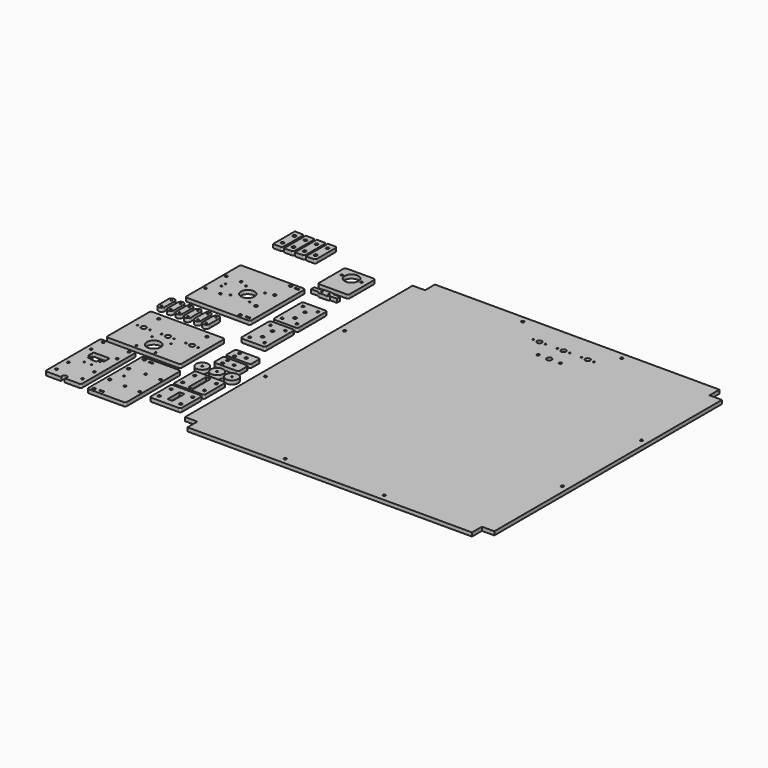
from build123d import *

# Parameters (mm, degrees)
F0_R      = 2
F0_R_2    = 1.3
F0_R_3    = 1.4
F0_R_4    = 2.5
F0_W      = 7
F0_H      = 2.5
F0_R_5    = 11.1
F1_DEPTH  = 6
F2_R      = 2.5
F2_W      = 7
F2_H      = 2.5
F2_R_2    = 1.5
F2_R_3    = 2
F3_DEPTH  = 6
F4_R      = 2
F4_R_2    = 1.3
F4_R_3    = 1.5
F5_DEPTH  = 6
F6_R      = 2
F6_R_2    = 2.5
F7_DEPTH  = 6
F8_R      = 2
F8_R_2    = 2.5
F9_DEPTH  = 6
F11_DEPTH = 6
F12_D     = 4.4
F14_DEPTH = 6
F15_D     = 4.4
F16_R     = 10
F17_DEPTH = 6
F18_D     = 3
F19_R     = 10
F20_DEPTH = 6
F21_D     = 3
F22_R     = 10
F23_DEPTH = 6
F24_D     = 3
F25_W     = 8
F25_H     = 35.2
F26_DEPTH = 6
F27_D     = 4.4
F28_W     = 8
F28_H     = 24.2
F29_DEPTH = 6
F30_D     = 4.4
F32_DEPTH = 6
F33_D     = 2.6
F34_D     = 4.4
F35_D     = 8.1
F36_D     = 22.5
F38_DEPTH = 6
F39_D     = 2.6
F41_DEPTH = 6
F42_D     = 2.6
F44_DEPTH = 6
F45_D     = 2.6
F47_DEPTH = 6
F48_D     = 2.6
F50_DEPTH = 6
F51_D     = 2.6
F53_DEPTH = 6
F54_D     = 2.6
F56_DEPTH = 6
F57_D     = 4.4
F58_D     = 2.6
F59_D     = 8.1
F60_D     = 8.4
F67_W     = 16
F67_H     = 12
F68_DEPTH = 6
F69_D     = 2.6
F71_DEPTH = 6
F72_D     = 3.5
F73_D     = 22.5
F75_DEPTH = 6
F76_D     = 2.6
F77_R     = 2.5
F78_DEPTH = 6
F79_R     = 2.5
F80_DEPTH = 6
F81_R     = 2.5
F82_DEPTH = 6
F83_R     = 2.5
F84_DEPTH = 6


with BuildPart() as f1:
    # F0 (on Top) → F1 (new body)
    with BuildSketch(Plane.XY):
        with BuildLine():
            Line((-121.4726894895, 123.7088296951), (-220.4726894895, 123.7088296951))
            ThreePointArc((-220.4726894895, 123.7088296951), (-222.5940098331, 122.8301500386), (-223.4726894895, 120.7088296951))
            Line((-223.4726894895, 120.7088296951), (-223.4726894895, 14.7088296951))
            ThreePointArc((-223.4726894895, 14.7088296951), (-222.5940098331, 12.5875093515), (-220.4726894895, 11.7088296951))
            Line((-220.4726894895, 11.7088296951), (-121.4726894895, 11.7088296951))
            ThreePointArc((-121.4726894895, 11.7088296951), (-119.351369146, 12.5875093515), (-118.4726894895, 14.7088296951))
            Line((-118.4726894895, 14.7088296951), (-118.4726894895, 120.7088296951))
            ThreePointArc((-118.4726894895, 120.7088296951), (-119.351369146, 122.8301500386), (-121.4726894895, 123.7088296951))
        make_face()
        with Locations((-218.4726894895, 46.7088296951)):
            Circle(F0_R, mode=Mode.SUBTRACT)
        with Locations((-206.4726894895, 63.7088296951)):
            Circle(F0_R_2, mode=Mode.SUBTRACT)
        with Locations((-194.4726894895, 46.7088296951)):
            Circle(F0_R, mode=Mode.SUBTRACT)
        with Locations((-182.4726894895, 52.2088296951)):
            Circle(F0_R_3, mode=Mode.SUBTRACT)
        with Locations((-138.4726894895, 16.7088296951)):
            Circle(F0_R_4, mode=Mode.SUBTRACT)
        with Locations((-126.9726894895, 17.9588296951)):
            Rectangle(F0_W, F0_H, mode=Mode.SUBTRACT)
        with Locations((-151.4726894895, 52.2088296951)):
            Circle(F0_R_3, mode=Mode.SUBTRACT)
        with Locations((-166.9726894895, 67.7088296951)):
            Circle(F0_R_5, mode=Mode.SUBTRACT)
        with Locations((-138.4726894895, 48.7088296951)):
            Circle(F0_R_4, mode=Mode.SUBTRACT)
        with Locations((-206.4726894895, 71.7088296951)):
            Circle(F0_R_2, mode=Mode.SUBTRACT)
        with Locations((-218.4726894895, 88.7088296951)):
            Circle(F0_R, mode=Mode.SUBTRACT)
        with Locations((-194.4726894895, 88.7088296951)):
            Circle(F0_R, mode=Mode.SUBTRACT)
        with Locations((-182.4726894895, 83.2088296951)):
            Circle(F0_R_3, mode=Mode.SUBTRACT)
        with Locations((-151.4726894895, 83.2088296951)):
            Circle(F0_R_3, mode=Mode.SUBTRACT)
        with Locations((-138.4726894895, 86.7088296951)):
            Circle(F0_R_4, mode=Mode.SUBTRACT)
        with Locations((-138.4726894895, 118.7088296951)):
            Circle(F0_R_4, mode=Mode.SUBTRACT)
        with Locations((-126.9726894895, 117.4588296951)):
            Rectangle(F0_W, F0_H, mode=Mode.SUBTRACT)
    extrude(amount=F1_DEPTH)


with BuildPart() as f3:
    # F2 (on Top) → F3 (new body)
    with BuildSketch(Plane.XY):
        with BuildLine():
            Line((183.2012386918, 102.1389492266), (127.2012386918, 102.1389492266))
            ThreePointArc((127.2012386918, 102.1389492266), (125.0799183482, 101.2602695701), (124.2012386918, 99.1389492266))
            Line((124.2012386918, 99.1389492266), (124.2012386918, -6.8610507734))
            ThreePointArc((124.2012386918, -6.8610507734), (125.0799183482, -8.982371117), (127.2012386918, -9.8610507734))
            Line((127.2012386918, -9.8610507734), (183.2012386918, -9.8610507734))
            ThreePointArc((183.2012386918, -9.8610507734), (185.3225590354, -8.982371117), (186.2012386918, -6.8610507734))
            Line((186.2012386918, -6.8610507734), (186.2012386918, 99.1389492266))
            ThreePointArc((186.2012386918, 99.1389492266), (185.3225590354, 101.2602695701), (183.2012386918, 102.1389492266))
        make_face()
        with Locations((131.2012386918, -4.8610507734)):
            Circle(F2_R, mode=Mode.SUBTRACT)
        with Locations((142.7012386918, -3.6110507734)):
            Rectangle(F2_W, F2_H, mode=Mode.SUBTRACT)
        with Locations((131.2012386918, 27.1389492266)):
            Circle(F2_R, mode=Mode.SUBTRACT)
        with Locations((139.2012386918, 46.1389492266)):
            Circle(F2_R_2, mode=Mode.SUBTRACT)
        with Locations((157.2012386918, 25.1389492266)):
            Circle(F2_R_3, mode=Mode.SUBTRACT)
        with Locations((181.2012386918, 25.1389492266)):
            Circle(F2_R_3, mode=Mode.SUBTRACT)
        with Locations((131.2012386918, 65.1389492266)):
            Circle(F2_R, mode=Mode.SUBTRACT)
        with Locations((131.2012386918, 97.1389492266)):
            Circle(F2_R, mode=Mode.SUBTRACT)
        with Locations((142.7012386918, 95.8889492266)):
            Rectangle(F2_W, F2_H, mode=Mode.SUBTRACT)
        with Locations((157.2012386918, 67.1389492266)):
            Circle(F2_R_3, mode=Mode.SUBTRACT)
        with Locations((181.2012386918, 67.1389492266)):
            Circle(F2_R_3, mode=Mode.SUBTRACT)
    extrude(amount=F3_DEPTH)


with BuildPart() as f5:
    # F4 (on Top) → F5 (new body)
    with BuildSketch(Plane.XY):
        with BuildLine():
            Line((17.8303923532, 117.4212751091), (-34.1696076468, 117.4212751091))
            ThreePointArc((-34.1696076468, 117.4212751091), (-36.2909279903, 116.5425954526), (-37.1696076468, 114.4212751091))
            Line((-37.1696076468, 114.4212751091), (-37.1696076468, 8.4212751091))
            ThreePointArc((-37.1696076468, 8.4212751091), (-36.2909279903, 6.2999547655), (-34.1696076468, 5.4212751091))
            Line((-34.1696076468, 5.4212751091), (-10.8153589578, 5.4212751091))
            ThreePointArc((-10.8153589578, 5.4212751091), (-8.1696076468, 12.4212751091), (-5.5238563357, 5.4212751091))
            Line((-5.5238563357, 5.4212751091), (17.8303923532, 5.4212751091))
            ThreePointArc((17.8303923532, 5.4212751091), (19.9517126968, 6.2999547655), (20.8303923532, 8.4212751091))
            Line((20.8303923532, 8.4212751091), (20.8303923532, 59.0844553919))
            Line((20.8303923532, 59.0844553919), (20.8303923532, 67.9327879548))
            Line((20.8303923532, 67.9327879548), (20.8303923532, 114.4212751091))
            ThreePointArc((20.8303923532, 114.4212751091), (19.9517126968, 116.5425954526), (17.8303923532, 117.4212751091))
        make_face()
        with Locations((-29.1696076468, 18.4212751091)):
            Circle(F4_R, mode=Mode.SUBTRACT)
        with Locations((-29.1696076468, 42.4212751091)):
            Circle(F4_R, mode=Mode.SUBTRACT)
        with Locations((-13.9696076468, 55.4212751091)):
            Circle(F4_R_2, mode=Mode.SUBTRACT)
        with Locations((12.8303923532, 18.4212751091)):
            Circle(F4_R, mode=Mode.SUBTRACT)
        with Locations((-2.3696076468, 55.4212751091)):
            Circle(F4_R_2, mode=Mode.SUBTRACT)
        with Locations((12.8303923532, 42.4212751091)):
            Circle(F4_R, mode=Mode.SUBTRACT)
        with Locations((-29.1696076468, 88.4212751091)):
            Circle(F4_R, mode=Mode.SUBTRACT)
        with Locations((-16.9696076468, 68.9212751091)):
            Circle(F4_R_3, mode=Mode.SUBTRACT)
        with BuildLine():
            ThreePointArc((-21.1696076468, 81.4212751091), (-20.5838212092, 82.8354886714), (-19.1696076468, 83.4212751091))
            Line((-19.1696076468, 83.4212751091), (2.8303923532, 83.4212751091))
            ThreePointArc((2.8303923532, 83.4212751091), (4.2446059156, 82.8354886714), (4.8303923532, 81.4212751091))
            Line((4.8303923532, 81.4212751091), (4.8303923532, 73.9212751091))
            ThreePointArc((4.8303923532, 73.9212751091), (4.2446059156, 72.5070615467), (2.8303923532, 71.9212751091))
            Line((2.8303923532, 71.9212751091), (-1.9696076468, 71.9212751091))
            ThreePointArc((-1.9696076468, 71.9212751091), (-2.676714428, 71.6283818902), (-2.9696076468, 70.9212751091))
            Line((-2.9696076468, 70.9212751091), (-2.9696076468, 66.9212751091))
            ThreePointArc((-2.9696076468, 66.9212751091), (-3.2625008656, 66.2141683279), (-3.9696076468, 65.9212751091))
            Line((-3.9696076468, 65.9212751091), (-11.9696076468, 65.9212751091))
            ThreePointArc((-11.9696076468, 65.9212751091), (-12.676714428, 66.2141683279), (-12.9696076468, 66.9212751091))
            Line((-12.9696076468, 66.9212751091), (-12.9696076468, 70.9212751091))
            ThreePointArc((-12.9696076468, 70.9212751091), (-13.2625008656, 71.6283818902), (-13.9696076468, 71.9212751091))
            Line((-13.9696076468, 71.9212751091), (-19.1696076468, 71.9212751091))
            ThreePointArc((-19.1696076468, 71.9212751091), (-20.5838212092, 72.5070615467), (-21.1696076468, 73.9212751091))
            Line((-21.1696076468, 73.9212751091), (-21.1696076468, 81.4212751091))
        make_face(mode=Mode.SUBTRACT)
        with Locations((-29.1696076468, 112.4212751091)):
            Circle(F4_R, mode=Mode.SUBTRACT)
        with Locations((0.6303923532, 68.9212751091)):
            Circle(F4_R_3, mode=Mode.SUBTRACT)
        with Locations((12.8303923532, 88.4212751091)):
            Circle(F4_R, mode=Mode.SUBTRACT)
        with Locations((12.8303923532, 112.4212751091)):
            Circle(F4_R, mode=Mode.SUBTRACT)
    extrude(amount=F5_DEPTH)


with BuildPart() as f7:
    # F6 (on Top) → F7 (new body)
    with BuildSketch(Plane.XY):
        with BuildLine():
            Line((-62.3658283694, 93.7757576555), (-96.3658283694, 93.7757576555))
            ThreePointArc((-96.3658283694, 93.7757576555), (-98.487148713, 92.8970779991), (-99.3658283694, 90.7757576555))
            Line((-99.3658283694, 90.7757576555), (-99.3658283694, 36.7757576555))
            ThreePointArc((-99.3658283694, 36.7757576555), (-98.487148713, 34.6544373119), (-96.3658283694, 33.7757576555))
            Line((-96.3658283694, 33.7757576555), (-62.3658283694, 33.7757576555))
            ThreePointArc((-62.3658283694, 33.7757576555), (-60.2445080259, 34.6544373119), (-59.3658283694, 36.7757576555))
            Line((-59.3658283694, 36.7757576555), (-59.3658283694, 90.7757576555))
            ThreePointArc((-59.3658283694, 90.7757576555), (-60.2445080259, 92.8970779991), (-62.3658283694, 93.7757576555))
        make_face()
        with Locations((-91.3658283694, 42.7757576555)):
            Circle(F6_R, mode=Mode.SUBTRACT)
        with Locations((-79.3658283694, 53.7757576555)):
            Circle(F6_R_2, mode=Mode.SUBTRACT)
        with Locations((-67.3658283694, 42.7757576555)):
            Circle(F6_R, mode=Mode.SUBTRACT)
        with Locations((-79.3658283694, 73.7757576555)):
            Circle(F6_R_2, mode=Mode.SUBTRACT)
        with Locations((-91.3658283694, 84.7757576555)):
            Circle(F6_R, mode=Mode.SUBTRACT)
        with Locations((-67.3658283694, 84.7757576555)):
            Circle(F6_R, mode=Mode.SUBTRACT)
    extrude(amount=F7_DEPTH)


with BuildPart() as f9:
    # F8 (on Top) → F9 (new body)
    with BuildSketch(Plane.XY):
        with BuildLine():
            Line((-62.1878812015, 27.9358605924), (-96.1878812015, 27.9358605924))
            ThreePointArc((-96.1878812015, 27.9358605924), (-98.3092015451, 27.057180936), (-99.1878812015, 24.9358605924))
            Line((-99.1878812015, 24.9358605924), (-99.1878812015, -29.0641394076))
            ThreePointArc((-99.1878812015, -29.0641394076), (-98.3092015451, -31.1854597512), (-96.1878812015, -32.0641394076))
            Line((-96.1878812015, -32.0641394076), (-62.1878812015, -32.0641394076))
            ThreePointArc((-62.1878812015, -32.0641394076), (-60.0665608579, -31.1854597512), (-59.1878812015, -29.0641394076))
            Line((-59.1878812015, -29.0641394076), (-59.1878812015, 24.9358605924))
            ThreePointArc((-59.1878812015, 24.9358605924), (-60.0665608579, 27.057180936), (-62.1878812015, 27.9358605924))
        make_face()
        with Locations((-91.1878812015, -23.0641394076)):
            Circle(F8_R, mode=Mode.SUBTRACT)
        with Locations((-79.1878812015, -12.0641394076)):
            Circle(F8_R_2, mode=Mode.SUBTRACT)
        with Locations((-67.1878812015, -23.0641394076)):
            Circle(F8_R, mode=Mode.SUBTRACT)
        with Locations((-79.1878812015, 7.9358605924)):
            Circle(F8_R_2, mode=Mode.SUBTRACT)
        with Locations((-91.1878812015, 18.9358605924)):
            Circle(F8_R, mode=Mode.SUBTRACT)
        with Locations((-67.1878812015, 18.9358605924)):
            Circle(F8_R, mode=Mode.SUBTRACT)
    extrude(amount=F9_DEPTH)


with BuildPart() as f11:
    # F10 (on Top) → F11 (new body)
    with BuildSketch(Plane.XY):
        with BuildLine():
            Line((82.8302996308, 100.5986004753), (48.8302996308, 100.5986004753))
            ThreePointArc((48.8302996308, 100.5986004753), (46.7089792872, 99.7199208189), (45.8302996308, 97.5986004753))
            Line((45.8302996308, 97.5986004753), (45.8302996308, 83.5986004753))
            ThreePointArc((45.8302996308, 83.5986004753), (46.7089792872, 81.4772801318), (48.8302996308, 80.5986004753))
            Line((48.8302996308, 80.5986004753), (82.8302996308, 80.5986004753))
            ThreePointArc((82.8302996308, 80.5986004753), (84.9516199743, 81.4772801318), (85.8302996308, 83.5986004753))
            Line((85.8302996308, 83.5986004753), (85.8302996308, 97.5986004753))
            ThreePointArc((85.8302996308, 97.5986004753), (84.9516199743, 99.7199208189), (82.8302996308, 100.5986004753))
        make_face()
    extrude(amount=F11_DEPTH)

    # F12 (through all)
    with Locations(Plane(origin=(0, 0, 0), x_dir=(1, 0, 0), z_dir=(0, 0, -1))):
        with Locations((70.8302996308, -90.8331647515), (56.2601983547, -95.5986004753), (56.2601983547, -85.5986004753)):
            Hole(F12_D / 2)


with BuildPart() as f14:
    # F13 (on Top) → F14 (new body)
    with BuildSketch(Plane.XY):
        with BuildLine():
            Line((83.043055733, 75.9324501036), (49.043055733, 75.9324501036))
            ThreePointArc((49.043055733, 75.9324501036), (46.9217353895, 75.0537704472), (46.043055733, 72.9324501036))
            Line((46.043055733, 72.9324501036), (46.043055733, 58.9324501036))
            ThreePointArc((46.043055733, 58.9324501036), (46.9217353895, 56.8111297601), (49.043055733, 55.9324501036))
            Line((49.043055733, 55.9324501036), (83.043055733, 55.9324501036))
            ThreePointArc((83.043055733, 55.9324501036), (85.1643760766, 56.8111297601), (86.043055733, 58.9324501036))
            Line((86.043055733, 58.9324501036), (86.043055733, 72.9324501036))
            ThreePointArc((86.043055733, 72.9324501036), (85.1643760766, 75.0537704472), (83.043055733, 75.9324501036))
        make_face()
    extrude(amount=F14_DEPTH)

    # F15 (through all)
    with Locations(Plane(origin=(0, 0, 0), x_dir=(1, 0, 0), z_dir=(0, 0, -1))):
        with Locations((56.472954457, -70.9324501036), (56.472954457, -60.9324501036), (71.043055733, -66.1670143799)):
            Hole(F15_D / 2)


with BuildPart() as f17:
    # F16 (on Top) → F17 (new body)
    with BuildSketch(Plane.XY):
        with Locations((41.353451604, 38.7378474598)):
            Circle(F16_R)
    extrude(amount=F17_DEPTH)

    # F18 (through all)
    with Locations(Plane(origin=(0, 0, 0), x_dir=(1, 0, 0), z_dir=(0, 0, -1))):
        with Locations((41.353451604, -38.7378474598)):
            Hole(F18_D / 2)


with BuildPart() as f20:
    # F19 (on Top) → F20 (new body)
    with BuildSketch(Plane.XY):
        with Locations((65.1841238141, 38.9179997146)):
            Circle(F19_R)
    extrude(amount=F20_DEPTH)

    # F21 (through all)
    with Locations(Plane(origin=(0, 0, 0), x_dir=(1, 0, 0), z_dir=(0, 0, -1))):
        with Locations((65.1841238141, -38.9179997146)):
            Hole(F21_D / 2)


with BuildPart() as f23:
    # F22 (on Top) → F23 (new body)
    with BuildSketch(Plane.XY):
        with Locations((88.78522715, 39.5500237191)):
            Circle(F22_R)
    extrude(amount=F23_DEPTH)

    # F24 (through all)
    with Locations(Plane(origin=(0, 0, 0), x_dir=(1, 0, 0), z_dir=(0, 0, -1))):
        with Locations((88.78522715, -39.5500237191)):
            Hole(F24_D / 2)


with BuildPart() as f26:
    # F25 (on Top) → F26 (new body)
    with BuildSketch(Plane.XY):
        with BuildLine():
            Line((89.607143566, 22.619068333), (45.607143566, 22.619068333))
            ThreePointArc((45.607143566, 22.619068333), (43.4858232225, 21.7403886766), (42.607143566, 19.619068333))
            Line((42.607143566, 19.619068333), (42.607143566, -18.380931667))
            ThreePointArc((42.607143566, -18.380931667), (43.4858232225, -20.5022520105), (45.607143566, -21.380931667))
            Line((45.607143566, -21.380931667), (89.607143566, -21.380931667))
            ThreePointArc((89.607143566, -21.380931667), (91.7284639096, -20.5022520105), (92.607143566, -18.380931667))
            Line((92.607143566, -18.380931667), (92.607143566, 19.619068333))
            ThreePointArc((92.607143566, 19.619068333), (91.7284639096, 21.7403886766), (89.607143566, 22.619068333))
        make_face()
        with Locations((67.607143566, 0.619068333)):
            Rectangle(F25_W, F25_H, mode=Mode.SUBTRACT)
    extrude(amount=F26_DEPTH)

    # F27 (through all)
    with Locations(Plane(origin=(0, 0, 0), x_dir=(1, 0, 0), z_dir=(0, 0, -1))):
        with Locations((50.107143566, -12.619068333), (50.107143566, 11.380931667), (85.107143566, -12.619068333), (85.107143566, 11.380931667)):
            Hole(F27_D / 2)


with BuildPart() as f29:
    # F28 (on Top) → F29 (new body)
    with BuildSketch(Plane.XY):
        with BuildLine():
            Line((89.4054548144, -24.8388311565), (45.4054548144, -24.8388311565))
            ThreePointArc((45.4054548144, -24.8388311565), (43.2841344709, -25.7175108129), (42.4054548144, -27.8388311565))
            Line((42.4054548144, -27.8388311565), (42.4054548144, -65.8388311565))
            ThreePointArc((42.4054548144, -65.8388311565), (43.2841344709, -67.9601515001), (45.4054548144, -68.8388311565))
            Line((45.4054548144, -68.8388311565), (89.4054548144, -68.8388311565))
            ThreePointArc((89.4054548144, -68.8388311565), (91.526775158, -67.9601515001), (92.4054548144, -65.8388311565))
            Line((92.4054548144, -65.8388311565), (92.4054548144, -27.8388311565))
            ThreePointArc((92.4054548144, -27.8388311565), (91.526775158, -25.7175108129), (89.4054548144, -24.8388311565))
        make_face()
        with Locations((67.4054548144, -46.8388311565)):
            Rectangle(F28_W, F28_H, mode=Mode.SUBTRACT)
    extrude(amount=F29_DEPTH)

    # F30 (through all)
    with Locations(Plane(origin=(0, 0, 0), x_dir=(1, 0, 0), z_dir=(0, 0, -1))):
        with Locations((49.9054548144, 34.8388311565), (49.9054548144, 58.8388311565), (84.9054548144, 58.8388311565), (84.9054548144, 34.8388311565)):
            Hole(F30_D / 2)


with BuildPart() as f32:
    # F31 (on Top) → F32 (new body)
    with BuildSketch(Plane.XY):
        with BuildLine():
            Line((-127.1964298487, -45.7102760133), (-241.1964298487, -45.7102760133))
            ThreePointArc((-241.1964298487, -45.7102760133), (-243.3177501922, -46.5889556697), (-244.1964298487, -48.7102760133))
            Line((-244.1964298487, -48.7102760133), (-244.1964298487, -132.7102760133))
            ThreePointArc((-244.1964298487, -132.7102760133), (-243.3177501922, -134.8315963568), (-241.1964298487, -135.7102760133))
            Line((-241.1964298487, -135.7102760133), (-127.1964298487, -135.7102760133))
            ThreePointArc((-127.1964298487, -135.7102760133), (-125.0751095051, -134.8315963568), (-124.1964298487, -132.7102760133))
            Line((-124.1964298487, -132.7102760133), (-124.1964298487, -48.7102760133))
            ThreePointArc((-124.1964298487, -48.7102760133), (-125.0751095051, -46.5889556697), (-127.1964298487, -45.7102760133))
        make_face()
    extrude(amount=F32_DEPTH)

    # F33 (through all)
    with Locations(Plane(origin=(0, 0, 0), x_dir=(1, 0, 0), z_dir=(0, 0, -1))):
        with Locations((-199.6964298487, 99.0102760133), (-199.6964298487, 130.0102760133), (-168.6964298487, 130.0102760133), (-168.6964298487, 99.0102760133), (-233.1964298487, 85.8718529344), (-213.1964298487, 85.8718529344), (-194.1964298487, 85.8718529344), (-174.1964298487, 85.8718529344), (-155.1964298487, 85.8718529344), (-135.1964298487, 85.8718529344)):
            Hole(F33_D / 2)

    # F34 (through all)
    with Locations(Plane(origin=(0, 0, 0), x_dir=(1, 0, 0), z_dir=(0, 0, -1))):
        with Locations((-223.1964298487, 55.7102760133), (-145.1964298487, 55.7102760133)):
            Hole(F34_D / 2)

    # F35 (through all)
    with Locations(Plane(origin=(0, 0, 0), x_dir=(1, 0, 0), z_dir=(0, 0, -1))):
        with Locations((-223.1964298487, 85.7102760133), (-184.1964298487, 85.7102760133), (-145.1964298487, 85.7102760133)):
            Hole(F35_D / 2)

    # F36 (through all)
    with Locations(Plane(origin=(0, 0, 0), x_dir=(1, 0, 0), z_dir=(0, 0, -1))):
        with Locations((-184.1964298487, 114.5102760133)):
            Hole(F36_D / 2)


with BuildPart() as f38:
    # F37 (on Top) → F38 (new body)
    with BuildSketch(Plane.XY):
        with BuildLine():
            Line((-226.533089431, -25.7523926041), (-226.533089431, -5.7523926041))
            ThreePointArc((-226.533089431, -5.7523926041), (-231.533089431, -0.7523926041), (-236.533089431, -5.7523926041))
            Line((-236.533089431, -5.7523926041), (-236.533089431, -25.7523926041))
            ThreePointArc((-236.533089431, -25.7523926041), (-231.533089431, -30.7523926041), (-226.533089431, -25.7523926041))
        make_face()
    extrude(amount=F38_DEPTH)

    # F39 (through all)
    with Locations(Plane(origin=(0, 0, 0), x_dir=(1, 0, 0), z_dir=(0, 0, -1))):
        with Locations((-231.533089431, 5.7523926041), (-231.533089431, 25.7523926041)):
            Hole(F39_D / 2)


with BuildPart() as f41:
    # F40 (on Top) → F41 (new body)
    with BuildSketch(Plane.XY):
        with BuildLine():
            Line((-211.7915701866, -25.6165696681), (-211.7915701866, -5.6165696681))
            ThreePointArc((-211.7915701866, -5.6165696681), (-216.7915701866, -0.6165696681), (-221.7915701866, -5.6165696681))
            Line((-221.7915701866, -5.6165696681), (-221.7915701866, -25.6165696681))
            ThreePointArc((-221.7915701866, -25.6165696681), (-216.7915701866, -30.6165696681), (-211.7915701866, -25.6165696681))
        make_face()
    extrude(amount=F41_DEPTH)

    # F42 (through all)
    with Locations(Plane(origin=(0, 0, 0), x_dir=(1, 0, 0), z_dir=(0, 0, -1))):
        with Locations((-216.7915701866, 5.6165696681), (-216.7915701866, 25.6165696681)):
            Hole(F42_D / 2)


with BuildPart() as f44:
    # F43 (on Top) → F44 (new body)
    with BuildSketch(Plane.XY):
        with BuildLine():
            Line((-197.3716121912, -25.9300481901), (-197.3716121912, -5.9300481901))
            ThreePointArc((-197.3716121912, -5.9300481901), (-202.3716121912, -0.9300481901), (-207.3716121912, -5.9300481901))
            Line((-207.3716121912, -5.9300481901), (-207.3716121912, -25.9300481901))
            ThreePointArc((-207.3716121912, -25.9300481901), (-202.3716121912, -30.9300481901), (-197.3716121912, -25.9300481901))
        make_face()
    extrude(amount=F44_DEPTH)

    # F45 (through all)
    with Locations(Plane(origin=(0, 0, 0), x_dir=(1, 0, 0), z_dir=(0, 0, -1))):
        with Locations((-202.3716121912, 5.9300481901), (-202.3716121912, 25.9300481901)):
            Hole(F45_D / 2)


with BuildPart() as f47:
    # F46 (on Top) → F47 (new body)
    with BuildSketch(Plane.XY):
        with BuildLine():
            Line((-182.9334151745, -27.1337444335), (-182.9334151745, -7.1337444335))
            ThreePointArc((-182.9334151745, -7.1337444335), (-187.9334151745, -2.1337444335), (-192.9334151745, -7.1337444335))
            Line((-192.9334151745, -7.1337444335), (-192.9334151745, -27.1337444335))
            ThreePointArc((-192.9334151745, -27.1337444335), (-187.9334151745, -32.1337444335), (-182.9334151745, -27.1337444335))
        make_face()
    extrude(amount=F47_DEPTH)

    # F48 (through all)
    with Locations(Plane(origin=(0, 0, 0), x_dir=(1, 0, 0), z_dir=(0, 0, -1))):
        with Locations((-187.9334151745, 7.1337444335), (-187.9334151745, 27.1337444335)):
            Hole(F48_D / 2)


with BuildPart() as f50:
    # F49 (on Top) → F50 (new body)
    with BuildSketch(Plane.XY):
        with BuildLine():
            Line((-167.4115115404, -26.5158414841), (-167.4115115404, -6.5158414841))
            ThreePointArc((-167.4115115404, -6.5158414841), (-172.4115115404, -1.5158414841), (-177.4115115404, -6.5158414841))
            Line((-177.4115115404, -6.5158414841), (-177.4115115404, -26.5158414841))
            ThreePointArc((-177.4115115404, -26.5158414841), (-172.4115115404, -31.5158414841), (-167.4115115404, -26.5158414841))
        make_face()
    extrude(amount=F50_DEPTH)

    # F51 (through all)
    with Locations(Plane(origin=(0, 0, 0), x_dir=(1, 0, 0), z_dir=(0, 0, -1))):
        with Locations((-172.4115115404, 6.5158414841), (-172.4115115404, 26.5158414841)):
            Hole(F51_D / 2)


with BuildPart() as f53:
    # F52 (on Top) → F53 (new body)
    with BuildSketch(Plane.XY):
        with BuildLine():
            Line((-153.4206968546, -27.0204350725), (-153.4206968546, -7.0204350725))
            ThreePointArc((-153.4206968546, -7.0204350725), (-158.4206968546, -2.0204350725), (-163.4206968546, -7.0204350725))
            Line((-163.4206968546, -7.0204350725), (-163.4206968546, -27.0204350725))
            ThreePointArc((-163.4206968546, -27.0204350725), (-158.4206968546, -32.0204350725), (-153.4206968546, -27.0204350725))
        make_face()
    extrude(amount=F53_DEPTH)

    # F54 (through all)
    with Locations(Plane(origin=(0, 0, 0), x_dir=(1, 0, 0), z_dir=(0, 0, -1))):
        with Locations((-158.4206968546, 7.0204350725), (-158.4206968546, 27.0204350725)):
            Hole(F54_D / 2)


with BuildPart() as f56:
    # F55 (on Top) → F56 (new body)
    with BuildSketch(Plane.XY):
        Polygon((400.3085973859, -95.41620366), (-59.6914026141, -95.41620366), (-59.6914026141, -115.41620366), (-79.6914026141, -115.41620366), (-79.6914026141, -575.41620366), (-59.6914026141, -575.41620366), (-59.6914026141, -595.41620366), (400.3085973859, -595.41620366), (400.3085973859, -575.41620366), (420.3085973859, -575.41620366), (420.3085973859, -115.41620366), (400.3085973859, -115.41620366), align=None)
    extrude(amount=F56_DEPTH)

    # F57 (through all)
    with Locations(Plane(origin=(0, 0, 0), x_dir=(1, 0, 0), z_dir=(0, 0, -1))):
        with Locations((90.3085973859, 105.41620366), (250.3085973859, 105.41620366), (-69.6914026141, 265.41620366), (-69.6914026141, 425.41620366), (410.3085973859, 265.41620366), (410.3085973859, 425.41620366), (250.3085973859, 585.41620366), (90.3085973859, 585.41620366), (162.3085973859, 164.21620366), (198.3085973859, 164.21620366)):
            Hole(F57_D / 2)

    # F58 (through all)
    with Locations(Plane(origin=(0, 0, 0), x_dir=(1, 0, 0), z_dir=(0, 0, -1))):
        with Locations((131.3085973859, 135.41620366), (151.3085973859, 135.41620366), (170.3085973859, 135.41620366), (190.3085973859, 135.41620366), (209.3085973859, 135.41620366), (229.3085973859, 135.41620366)):
            Hole(F58_D / 2)

    # F59 (through all)
    with Locations(Plane(origin=(0, 0, 0), x_dir=(1, 0, 0), z_dir=(0, 0, -1))):
        with Locations((141.3085973859, 135.41620366), (180.3085973859, 135.41620366), (219.3085973859, 135.41620366)):
            Hole(F59_D / 2)

    # F60 (through all)
    with Locations(Plane(origin=(0, 0, 0), x_dir=(1, 0, 0), z_dir=(0, 0, -1))):
        with Locations((180.3085973859, 164.21620366)):
            Hole(F60_D / 2)


with BuildPart() as f3_1:
    # F61: moved
    add(f3.part.moved(Location((-288, -251, 0))))


with BuildPart() as f5_1:
    # F62: moved
    add(f5.part.moved(Location((-198, -262, 0))))


with BuildPart() as f56_1:
    # F63: moved
    add(f56.part.moved(Location((155, 0, 0))))


with BuildPart() as f11_1:
    # F64: moved
    add(f11.part.moved(Location((-130, -161, 0))))


with BuildPart() as f14_1:
    # F64: moved
    add(f14.part.moved(Location((-130, -161, 0))))


with BuildPart() as f17_1:
    # F64: moved
    add(f17.part.moved(Location((-130, -161, 0))))


with BuildPart() as f20_1:
    # F64: moved
    add(f20.part.moved(Location((-130, -161, 0))))


with BuildPart() as f23_1:
    # F64: moved
    add(f23.part.moved(Location((-130, -161, 0))))


with BuildPart() as f26_1:
    # F64: moved
    add(f26.part.moved(Location((-130, -161, 0))))


with BuildPart() as f29_1:
    # F64: moved
    add(f29.part.moved(Location((-130, -161, 0))))


with BuildPart() as f32_1:
    # F65: moved
    add(f32.part.moved(Location((11, 0, 0))))


with BuildPart() as f56_2:
    # F66: moved
    add(f56_1.part.moved(Location((-94, 331, 0))))


with BuildPart() as f68:
    # F67 (on Top) → F68 (new body)
    with BuildSketch(Plane.XY):
        with Locations((-125.1312127786, -8.7535502389)):
            Rectangle(F67_W, F67_H)
    extrude(amount=F68_DEPTH)

    # F69 (through all)
    with Locations(Plane(origin=(0, 0, 0), x_dir=(1, 0, 0), z_dir=(0, 0, -1))):
        with Locations((-129.3812127786, 8.7535502389), (-120.8812127786, 8.7535502389)):
            Hole(F69_D / 2)


with BuildPart() as f71:
    # F70 (on Top) → F71 (new body)
    with BuildSketch(Plane.XY):
        with BuildLine():
            Line((-69.2453066111, 200.0556814671), (-112.7453066111, 200.0556814671))
            ThreePointArc((-112.7453066111, 200.0556814671), (-114.8666269546, 199.1770018106), (-115.7453066111, 197.0556814671))
            Line((-115.7453066111, 197.0556814671), (-115.7453066111, 148.0556814671))
            ThreePointArc((-115.7453066111, 148.0556814671), (-114.8666269546, 145.9343611235), (-112.7453066111, 145.0556814671))
            Line((-112.7453066111, 145.0556814671), (-69.2453066111, 145.0556814671))
            ThreePointArc((-69.2453066111, 145.0556814671), (-67.1239862675, 145.9343611235), (-66.2453066111, 148.0556814671))
            Line((-66.2453066111, 148.0556814671), (-66.2453066111, 197.0556814671))
            ThreePointArc((-66.2453066111, 197.0556814671), (-67.1239862675, 199.1770018106), (-69.2453066111, 200.0556814671))
        make_face()
    extrude(amount=F71_DEPTH)

    # F72 (through all)
    with Locations(Plane(origin=(0, 0, 0), x_dir=(1, 0, 0), z_dir=(0, 0, -1))):
        with Locations((-106.9953066111, -182.5556814671), (-74.9953066111, -182.5556814671)):
            Hole(F72_D / 2)

    # F73 (through all)
    with Locations(Plane(origin=(0, 0, 0), x_dir=(1, 0, 0), z_dir=(0, 0, -1))):
        with Locations((-90.9953066111, -182.5556814671)):
            Hole(F73_D / 2)


with BuildPart() as f75:
    # F74 (on Top) → F75 (new body)
    with BuildSketch(Plane.XY):
        with BuildLine():
            Line((-86.2497937322, 136.554600209), (-97.8497937322, 136.554600209))
            ThreePointArc((-97.8497937322, 136.554600209), (-100.1410815796, 136.0282111159), (-101.9728993578, 134.554600209))
            Line((-101.9728993578, 134.554600209), (-113.0497937322, 134.554600209))
            Line((-113.0497937322, 134.554600209), (-113.0497937322, 128.054600209))
            Line((-113.0497937322, 128.054600209), (-101.9728993578, 128.054600209))
            ThreePointArc((-101.9728993578, 128.054600209), (-100.1410815796, 126.5809893021), (-97.8497937322, 126.054600209))
            Line((-97.8497937322, 126.054600209), (-86.2497937322, 126.054600209))
            ThreePointArc((-86.2497937322, 126.054600209), (-83.9585058847, 126.5809893021), (-82.1266881065, 128.054600209))
            Line((-82.1266881065, 128.054600209), (-71.0497937322, 128.054600209))
            Line((-71.0497937322, 128.054600209), (-71.0497937322, 134.554600209))
            Line((-71.0497937322, 134.554600209), (-82.1266881065, 134.554600209))
            ThreePointArc((-82.1266881065, 134.554600209), (-83.9585058847, 136.0282111159), (-86.2497937322, 136.554600209))
        make_face()
    extrude(amount=F75_DEPTH)

    # F76 (through all)
    with Locations(Plane(origin=(0, 0, 0), x_dir=(1, 0, 0), z_dir=(0, 0, -1))):
        with Locations((-97.8497937322, -131.304600209), (-86.2497937322, -131.304600209)):
            Hole(F76_D / 2)


with BuildPart() as f78:
    # F77 (on Top) → F78 (new body)
    with BuildSketch(Plane.XY):
        with BuildLine():
            Line((-215.5531810522, 238.4863442183), (-227.5531810522, 238.4863442183))
            Line((-227.5531810522, 238.4863442183), (-227.5531810522, 194.4863442183))
            Line((-227.5531810522, 194.4863442183), (-215.5531810522, 194.4863442183))
            ThreePointArc((-215.5531810522, 194.4863442183), (-213.4318607086, 195.3650238747), (-212.5531810522, 197.4863442183))
            Line((-212.5531810522, 197.4863442183), (-212.5531810522, 235.4863442183))
            ThreePointArc((-212.5531810522, 235.4863442183), (-213.4318607086, 237.6076645618), (-215.5531810522, 238.4863442183))
        make_face()
        with Locations((-220.0531810522, 204.4863442183)):
            Circle(F77_R, mode=Mode.SUBTRACT)
        with Locations((-220.0531810522, 228.4863442183)):
            Circle(F77_R, mode=Mode.SUBTRACT)
    extrude(amount=F78_DEPTH)


with BuildPart() as f80:
    # F79 (on Top) → F80 (new body)
    with BuildSketch(Plane.XY):
        with BuildLine():
            Line((-197.4471068213, 237.9381061792), (-209.4471068213, 237.9381061792))
            Line((-209.4471068213, 237.9381061792), (-209.4471068213, 193.9381061792))
            Line((-209.4471068213, 193.9381061792), (-197.4471068213, 193.9381061792))
            ThreePointArc((-197.4471068213, 193.9381061792), (-195.3257864777, 194.8167858357), (-194.4471068213, 196.9381061792))
            Line((-194.4471068213, 196.9381061792), (-194.4471068213, 234.9381061792))
            ThreePointArc((-194.4471068213, 234.9381061792), (-195.3257864777, 237.0594265228), (-197.4471068213, 237.9381061792))
        make_face()
        with Locations((-201.9471068213, 203.9381061792)):
            Circle(F79_R, mode=Mode.SUBTRACT)
        with Locations((-201.9471068213, 227.9381061792)):
            Circle(F79_R, mode=Mode.SUBTRACT)
    extrude(amount=F80_DEPTH)


with BuildPart() as f82:
    # F81 (on Top) → F82 (new body)
    with BuildSketch(Plane.XY):
        with BuildLine():
            Line((-179.6474313566, 238.0808146), (-191.6474313566, 238.0808146))
            Line((-191.6474313566, 238.0808146), (-191.6474313566, 194.0808146))
            Line((-191.6474313566, 194.0808146), (-179.6474313566, 194.0808146))
            ThreePointArc((-179.6474313566, 194.0808146), (-177.5261110131, 194.9594942564), (-176.6474313566, 197.0808146))
            Line((-176.6474313566, 197.0808146), (-176.6474313566, 235.0808146))
            ThreePointArc((-176.6474313566, 235.0808146), (-177.5261110131, 237.2021349436), (-179.6474313566, 238.0808146))
        make_face()
        with Locations((-184.1474313566, 204.0808146)):
            Circle(F81_R, mode=Mode.SUBTRACT)
        with Locations((-184.1474313566, 228.0808146)):
            Circle(F81_R, mode=Mode.SUBTRACT)
    extrude(amount=F82_DEPTH)


with BuildPart() as f84:
    # F83 (on Top) → F84 (new body)
    with BuildSketch(Plane.XY):
        with BuildLine():
            Line((-161.9532561133, 238.2225395441), (-173.9532561133, 238.2225395441))
            Line((-173.9532561133, 238.2225395441), (-173.9532561133, 194.2225395441))
            Line((-173.9532561133, 194.2225395441), (-161.9532561133, 194.2225395441))
            ThreePointArc((-161.9532561133, 194.2225395441), (-159.8319357697, 195.1012192005), (-158.9532561133, 197.2225395441))
            Line((-158.9532561133, 197.2225395441), (-158.9532561133, 235.2225395441))
            ThreePointArc((-158.9532561133, 235.2225395441), (-159.8319357697, 237.3438598877), (-161.9532561133, 238.2225395441))
        make_face()
        with Locations((-166.4532561133, 204.2225395441)):
            Circle(F83_R, mode=Mode.SUBTRACT)
        with Locations((-166.4532561133, 228.2225395441)):
            Circle(F83_R, mode=Mode.SUBTRACT)
    extrude(amount=F84_DEPTH)


solid = Compound([f1.part, f7.part, f9.part, f38.part, f41.part, f44.part, f47.part, f50.part, f53.part, f3_1.part, f5_1.part, f11_1.part, f14_1.part, f17_1.part, f20_1.part, f23_1.part, f26_1.part, f29_1.part, f32_1.part, f56_2.part, f71.part, f75.part, f78.part, f80.part, f82.part, f84.part])
